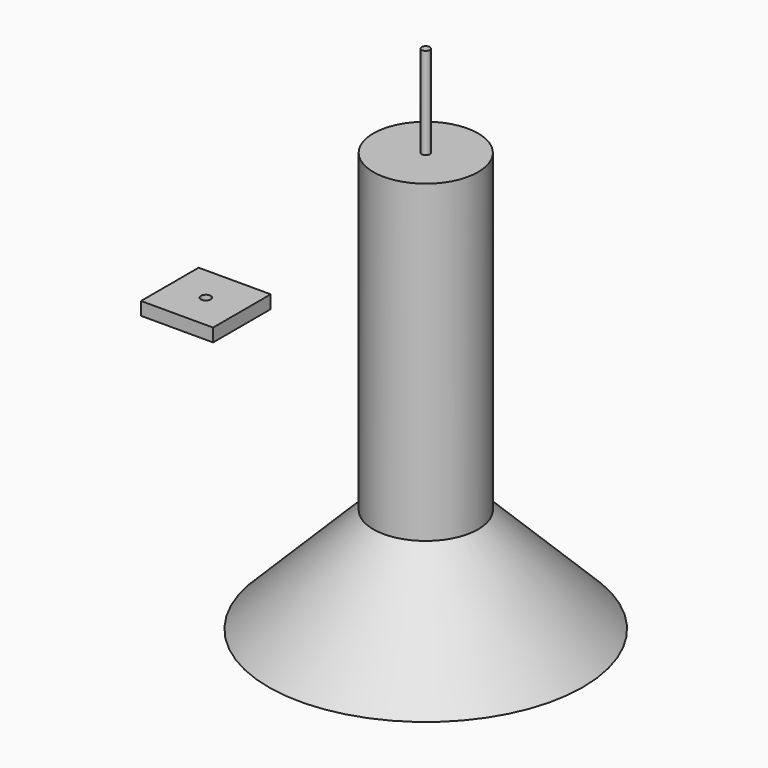
from build123d import *

# Parameters (mm, degrees)
F0_R      = 101.6
F1_DEPTH  = 609.6
F3_R      = 304.8
F1_FACE_R = 101.6
F5_R      = 7.9375
F6_DEPTH  = 177.8
F7_W      = 139.7
F7_H      = 139.7
F7_R      = 9.525
F8_DEPTH  = 25.4


with BuildPart() as f1:
    # F0 (on Top) → F1 (new body)
    with BuildSketch(Plane.XY):
        Circle(F0_R)
    extrude(amount=F1_DEPTH)

    # F3 (on offset) → F4 section 0
    with BuildSketch(Plane.XY.offset(-203.2)):
        Circle(F3_R)
    # F1_face (on face) → F4 section 1
    with BuildSketch(Plane(origin=(0, 0, 0), x_dir=(1, 0, 0), z_dir=(0, 0, -1))):
        Circle(F1_FACE_R)
    loft()

    # F5 (on face) → F6 (join)
    with BuildSketch(Plane.XY.offset(609.6)):
        Circle(F5_R)
    extrude(amount=F6_DEPTH)


with BuildPart() as f8:
    # F7 (on Top) → F8 (new body)
    with BuildSketch(Plane.XY):
        with Locations((-664.191993, 297.489228)):
            Rectangle(F7_W, F7_H)
        with Locations((-664.191993, 297.489228)):
            Circle(F7_R, mode=Mode.SUBTRACT)
    extrude(amount=F8_DEPTH)


solid = Compound([f1.part, f8.part])
